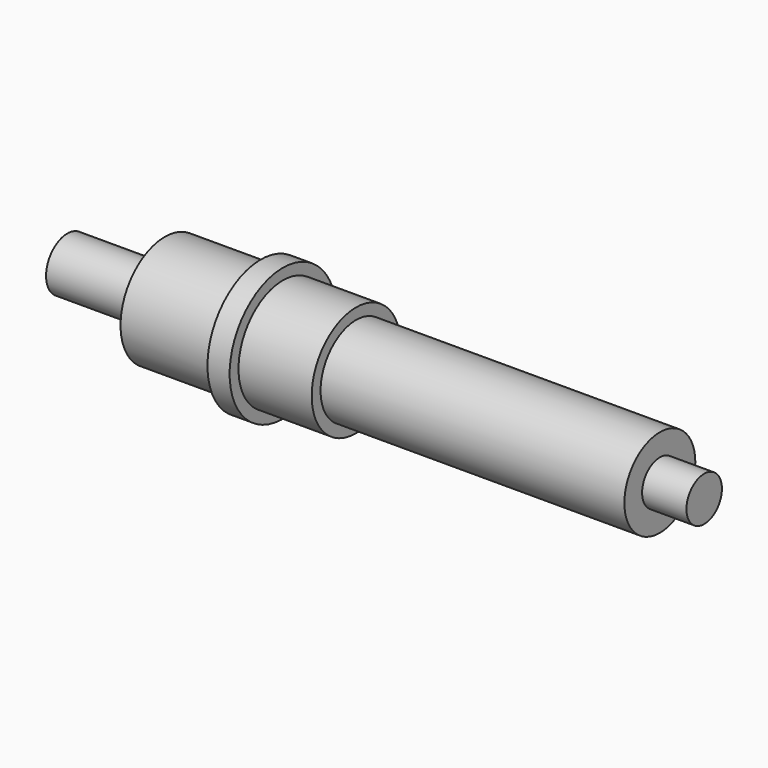
from build123d import *


with BuildPart() as f1:
    # F0 (on Top) → F1 (revolve)
    with BuildSketch(Plane.XY):
        Polygon((-66.8, 6), (-66.8, 0), (66.8, 0), (76.8, 0), (76.8, 5), (66.8, 5), (66.8, 10), (-1.7, 10), (-1.7, 12.5), (-18.2, 12.5), (-18.2, 15), (-23.2, 15), (-23.2, 12.5), (-44.8, 12.5), (-44.8, 6), align=None)
    revolve(axis=Axis((0, 0, 0), (1, 0, 0)))


solid = f1.part
